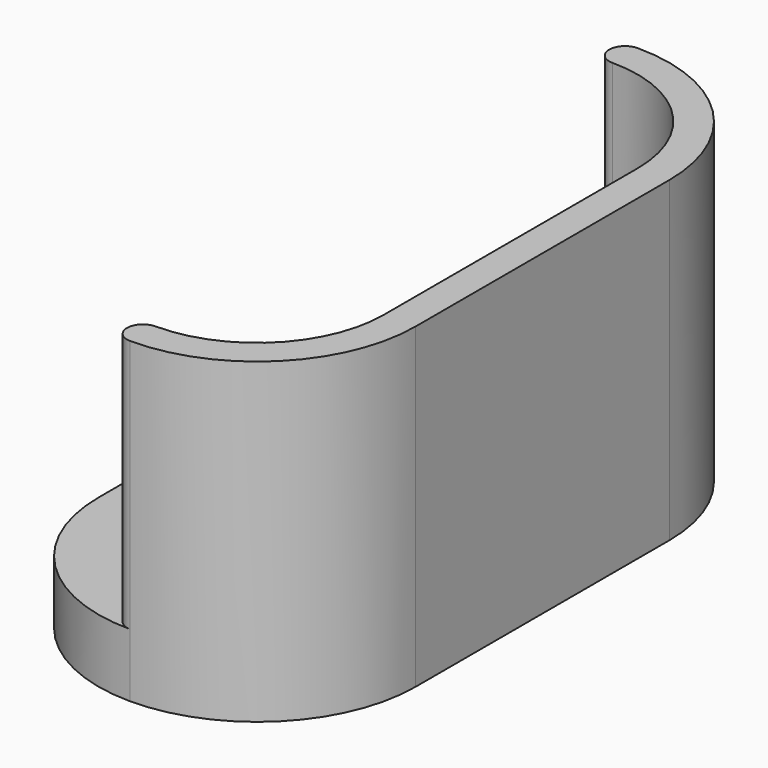
from build123d import *

# Parameters (mm, degrees)
F0_R     = 2.75
F1_DEPTH = 4
F2_DEPTH = 20


with BuildPart() as f1:
    # F0 (on Top) → F1 (new body)
    with BuildSketch(Plane.XY):
        with BuildLine():
            ThreePointArc((0, 30), (-7.071068, 27.071068), (-10, 20))
            Line((-10, 20), (-10, 0))
            ThreePointArc((-10, 0), (-7.071068, -7.071068), (0, -10))
            ThreePointArc((0, -10), (-1, -9), (0, -8))
            ThreePointArc((0, -8), (5.656854, -5.656854), (8, 0))
            Line((8, 0), (8, 20))
            ThreePointArc((8, 20), (5.656854, 25.656854), (0, 28))
            ThreePointArc((0, 28), (-1, 29), (0, 30))
        make_face()
        Circle(F0_R, mode=Mode.SUBTRACT)
        with Locations((0, 20)):
            Circle(F0_R, mode=Mode.SUBTRACT)
    extrude(amount=F1_DEPTH)

    # F0 (on Top) → F2 (join)
    with BuildSketch(Plane.XY):
        with BuildLine():
            ThreePointArc((10, 20), (7.071068, 27.071068), (0, 30))
            ThreePointArc((0, 30), (-1, 29), (0, 28))
            ThreePointArc((0, 28), (5.656854, 25.656854), (8, 20))
            Line((8, 20), (8, 0))
            ThreePointArc((8, 0), (5.656854, -5.656854), (0, -8))
            ThreePointArc((0, -8), (-1, -9), (0, -10))
            ThreePointArc((0, -10), (7.071068, -7.071068), (10, 0))
            Line((10, 0), (10, 20))
        make_face()
    extrude(amount=F2_DEPTH)


solid = f1.part
